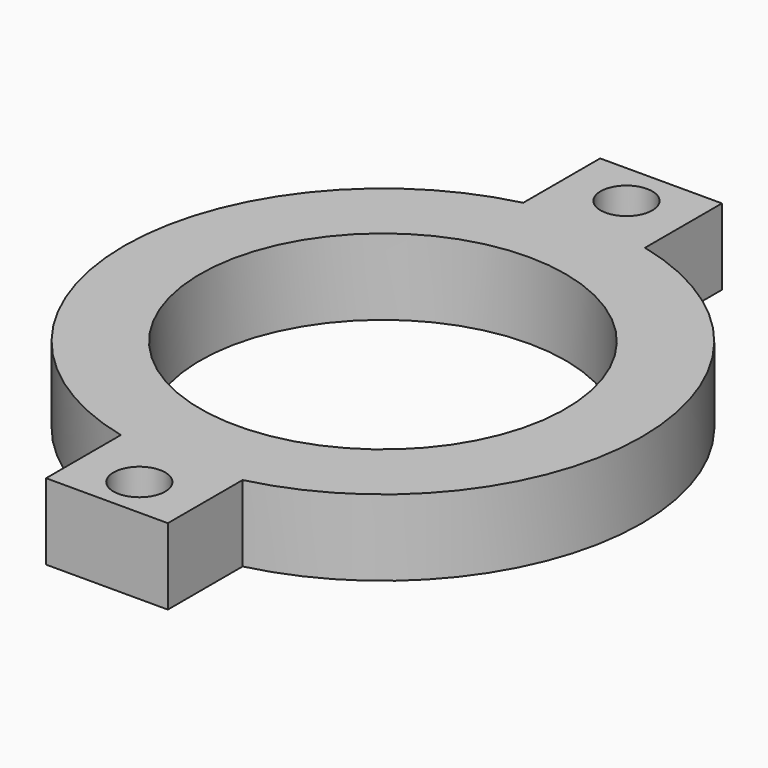
from build123d import *

# Parameters (mm, degrees)
CYLINDER_R          = 2
CYLINDER_DEPTH      = 10
CYLINDER098_R       = 1.7
CYLINDER098_DEPTH   = 14
CYLINDER097_R       = 12
CYLINDER097_DEPTH   = 33
CYLINDER099_R       = 1.7
CYLINDER099_DEPTH   = 14
BOX017_W            = 45.5
BOX017_H            = 8
BOX017_DEPTH        = 5
CYLINDER096_R       = 17
CYLINDER096_DEPTH   = 5
CUT_PLACEMENT_ANGLE = 90


with BuildPart() as cylinder:
    # Cylinder → Cylinder (new body)
    with BuildSketch(Plane(origin=(0, 57, 0), x_dir=(1, 0, 0), z_dir=(0, 0, 1))):
        Circle(CYLINDER_R)
    extrude(amount=CYLINDER_DEPTH)


with BuildPart() as obj1:
    # Cylinder098 → Cylinder098 (new body)
    with BuildSketch(Plane(origin=(53.66, 148, -15), x_dir=(1, 0, 0), z_dir=(0, 0, 1))):
        Circle(CYLINDER098_R)
    extrude(amount=CYLINDER098_DEPTH)


with BuildPart() as obj2:
    # Cylinder097 → Cylinder097 (new body)
    with BuildSketch(Plane(origin=(73.66, 148, -10), x_dir=(1, 0, 0), z_dir=(0, 0, 1))):
        Circle(CYLINDER097_R)
    extrude(amount=CYLINDER097_DEPTH)


with BuildPart() as fusion041:
    # Cylinder099 → Cylinder099 (new body)
    with BuildSketch(Plane(origin=(93.66, 148, -14), x_dir=(1, 0, 0), z_dir=(0, 0, 1))):
        Circle(CYLINDER099_R)
    extrude(amount=CYLINDER099_DEPTH)

    # Fusion041: union obj1, obj2
    add(obj1.part)
    add(obj2.part)


with BuildPart() as obj3:
    # Box017 → Box017 (new body)
    with BuildSketch(Plane(origin=(51, 144, -10), x_dir=(1, 0, 0), z_dir=(0, 0, 1))):
        with Locations((22.75, 4)):
            Rectangle(BOX017_W, BOX017_H)
    extrude(amount=BOX017_DEPTH)


with BuildPart() as base_cut:
    # Cylinder096 → Cylinder096 (new body)
    with BuildSketch(Plane(origin=(73.66, 148, -10), x_dir=(1, 0, 0), z_dir=(0, 0, 1))):
        Circle(CYLINDER096_R)
    extrude(amount=CYLINDER096_DEPTH)

    # Fusion042: union obj3
    add(obj3.part)

    # Cut011: cut Fusion041
    add(fusion041.part, mode=Mode.SUBTRACT)


with BuildPart() as base_cut_1:
    # Cut011 placement: moved
    add(base_cut.part.moved(Location((-73.66, -148, 2))))

    # Cut: cut Cylinder
    add(cylinder.part, mode=Mode.SUBTRACT)


with BuildPart() as base_cut_2:
    # Cut placement: moved
    add(base_cut_1.part.rotate(Axis((0, 0, 0), (0, 0, 1)), CUT_PLACEMENT_ANGLE))


solid = base_cut_2.part
